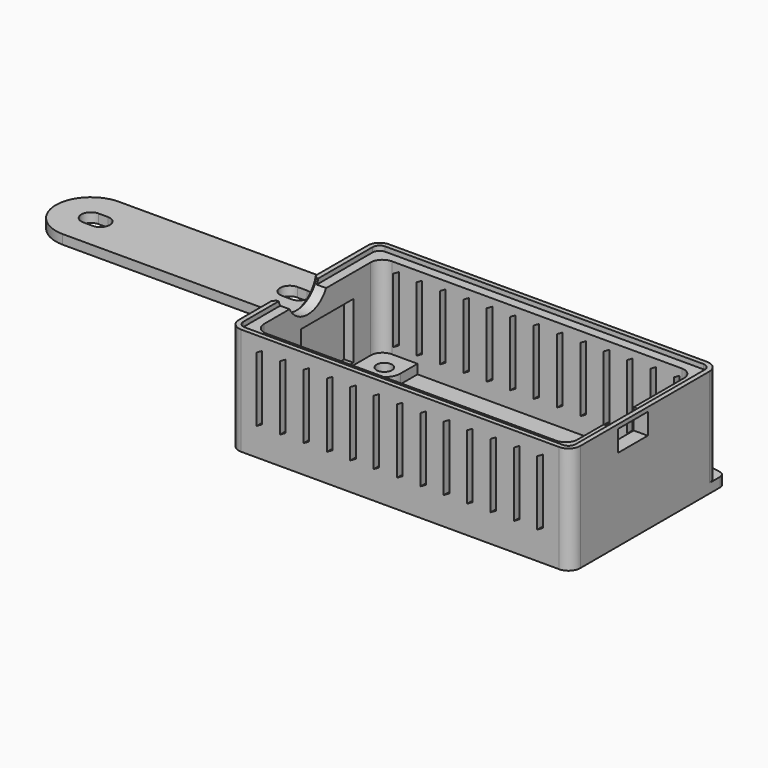
from build123d import *

# Parameters (mm, degrees)
PAD_DEPTH           = 4
PAD_DEPTH_BACK      = 15.5
SKETCH001_R         = 1.65
PAD001_DEPTH        = 2
PAD002_DEPTH        = 2.5
SKETCH003_R         = 2.55
POCKET_DEPTH        = 5
PAD004_DEPTH        = 1
SKETCH006_W         = 2.523834
SKETCH006_H         = 14
POCKET001_DEPTH     = 12
POCKET002_DEPTH     = 5
POCKET003_DEPTH     = 52
LINEARPATTERN_COUNT = 13
LINEARPATTERN_PITCH = 5
CHAMFER_SIZE        = 0.6
SKETCH010_W         = 8
SKETCH010_H         = 4.5
POCKET004_DEPTH     = 5
PAD005_DEPTH        = 2


with BuildPart() as part:
    # Sketch → Pad (new body, two sides)
    with BuildSketch(Plane.XY) as pad_sk:
        with BuildLine():
            ThreePointArc((-37.95, 36.15), (-39.717767, 35.417767), (-40.45, 33.65))
            Line((-40.45, -0.85), (-40.45, 33.65))
            ThreePointArc((-40.45, -0.85), (-39.717767, -2.617767), (-37.95, -3.35))
            Line((30.05, -3.35), (-37.95, -3.35))
            ThreePointArc((30.05, -3.35), (31.817767, -2.617767), (32.55, -0.85))
            Line((32.55, 33.65), (32.55, -0.85))
            ThreePointArc((32.55, 33.65), (31.817767, 35.417767), (30.05, 36.15))
            Line((-37.95, 36.15), (30.05, 36.15))
        make_face()
        with BuildLine():
            ThreePointArc((-34.95, 33.15), (-36.717767, 32.417767), (-37.45, 30.65))
            Line((-37.45, 2.15), (-37.45, 30.65))
            ThreePointArc((-37.45, 2.15), (-36.717767, 0.382233), (-34.95, -0.35))
            Line((27.05, -0.35), (-34.95, -0.35))
            ThreePointArc((27.05, -0.35), (28.817767, 0.382233), (29.55, 2.15))
            Line((29.55, 30.65), (29.55, 2.15))
            ThreePointArc((29.55, 30.65), (28.817767, 32.417767), (27.05, 33.15))
            Line((-34.95, 33.15), (27.05, 33.15))
        make_face(mode=Mode.SUBTRACT)
    extrude(amount=PAD_DEPTH)
    extrude(pad_sk.sketch, amount=-PAD_DEPTH_BACK)

    # Sketch001 → Pad001 (join)
    with BuildSketch(Plane(origin=(0, 0, -15.5), x_dir=(-1, 0, 0), z_dir=(0, 0, -1))):
        with BuildLine():
            ThreePointArc((32.95, 9.15), (30.475126, 8.124874), (29.45, 5.65))
            Line((29.45, 5.65), (29.45, -1.225866))
            Line((29.45, -1.225866), (39.187533, -1.225866))
            Line((39.187533, -1.225866), (40.181561, 0.643899))
            Line((40.181561, 0.643899), (40.181561, 9.15))
            Line((40.181561, 9.15), (32.95, 9.15))
        make_face()
        with Locations((32.95, 5.65)):
            Circle(SKETCH001_R, mode=Mode.SUBTRACT)
        with BuildLine():
            ThreePointArc((29.45, 28.65), (30.475126, 26.175126), (32.95, 25.15))
            Line((32.95, 25.15), (40.243741, 25.15))
            Line((40.243741, 25.15), (40.243741, 31.304911))
            Line((40.243741, 31.304911), (38.019788, 33.873424))
            Line((38.019788, 33.873424), (29.45, 33.873424))
            Line((29.45, 33.873424), (29.45, 28.65))
        make_face()
        with Locations((32.95, 28.65)):
            Circle(SKETCH001_R, mode=Mode.SUBTRACT)
        with BuildLine():
            ThreePointArc((-25.05, 25.15), (-22.575126, 26.175126), (-21.55, 28.65))
            Line((-21.55, 28.65), (-21.55, 33.652167))
            Line((-21.55, 33.652167), (-30.235516, 33.652167))
            Line((-30.235516, 33.652167), (-31.483717, 32.318474))
            Line((-31.483717, 32.318474), (-31.483717, 25.15))
            Line((-31.483717, 25.15), (-25.05, 25.15))
        make_face()
        with Locations((-25.05, 28.65)):
            Circle(SKETCH001_R, mode=Mode.SUBTRACT)
        with BuildLine():
            ThreePointArc((-21.55, 5.65), (-22.575126, 8.124874), (-25.05, 9.15))
            Line((-31.55538, 9.15), (-25.05, 9.15))
            Line((-31.55538, 0.848515), (-31.55538, 9.15))
            Line((-29.696674, -1.323495), (-31.55538, 0.848515))
            Line((-21.55, -1.323495), (-29.696674, -1.323495))
            Line((-21.55, 5.65), (-21.55, -1.323495))
        make_face()
        with Locations((-25.05, 5.65)):
            Circle(SKETCH001_R, mode=Mode.SUBTRACT)
    extrude(amount=-PAD001_DEPTH)

    # Sketch002 → Pad002 (join)
    with BuildSketch(Plane.XY.offset(-15.5)):
        with BuildLine():
            ThreePointArc((-37.95, 36.15), (-39.717767, 35.417767), (-40.45, 33.65))
            Line((-40.45, -0.85), (-40.45, 33.65))
            ThreePointArc((-40.45, -0.85), (-39.717767, -2.617767), (-37.95, -3.35))
            Line((30.05, -3.35), (-37.95, -3.35))
            ThreePointArc((30.05, -3.35), (31.817767, -2.617767), (32.55, -0.85))
            Line((32.55, 33.65), (32.55, -0.85))
            ThreePointArc((32.55, 33.65), (31.817767, 35.417767), (30.05, 36.15))
            Line((-37.95, 36.15), (30.05, 36.15))
        make_face()
    extrude(amount=-PAD002_DEPTH)

    # Sketch003 → Pocket (cut)
    with BuildSketch(Plane(origin=(0, 0, -15.5), x_dir=(-1, 0, 0), z_dir=(0, 0, -1))):
        with Locations((-25.05, 28.65)):
            Circle(SKETCH003_R)
        with Locations((-25.05, 5.65)):
            Circle(SKETCH003_R)
        with Locations((32.95, 28.65)):
            Circle(SKETCH003_R)
        with Locations((32.95, 5.65)):
            Circle(SKETCH003_R)
    extrude(amount=POCKET_DEPTH, mode=Mode.SUBTRACT)

    # Sketch005 → Pad004 (join)
    with BuildSketch(Plane.XY.offset(4)):
        with BuildLine():
            ThreePointArc((-37.95, 36.15), (-39.717767, 35.417767), (-40.45, 33.65))
            Line((-40.45, -0.85), (-40.45, 33.65))
            ThreePointArc((-40.45, -0.85), (-39.717767, -2.617767), (-37.95, -3.35))
            Line((30.05, -3.35), (-37.95, -3.35))
            ThreePointArc((30.05, -3.35), (31.817767, -2.617767), (32.55, -0.85))
            Line((32.55, 33.65), (32.55, -0.85))
            ThreePointArc((32.55, 33.65), (31.817767, 35.417767), (30.05, 36.15))
            Line((-37.95, 36.15), (30.05, 36.15))
        make_face()
        with BuildLine():
            ThreePointArc((-37.95, 35.15), (-39.01066, 34.71066), (-39.45, 33.65))
            Line((-39.45, -0.85), (-39.45, 33.65))
            ThreePointArc((-39.45, -0.85), (-39.01066, -1.91066), (-37.95, -2.35))
            Line((30.05, -2.35), (-37.95, -2.35))
            ThreePointArc((30.05, -2.35), (31.11066, -1.91066), (31.55, -0.85))
            Line((31.55, 33.65), (31.55, -0.85))
            ThreePointArc((31.55, 33.65), (31.11066, 34.71066), (30.05, 35.15))
            Line((-37.95, 35.15), (30.05, 35.15))
        make_face(mode=Mode.SUBTRACT)
    extrude(amount=PAD004_DEPTH)

    # Sketch006 → Pocket001 (cut)
    with BuildSketch(Plane.XY.offset(-13)):
        with Locations((-38.135521, 19.000789)):
            Rectangle(SKETCH006_W, SKETCH006_H)
    extrude(amount=POCKET001_DEPTH, mode=Mode.SUBTRACT)

    # Sketch007 → Pocket002 (cut)
    with BuildSketch(Plane(origin=(-41.45, 0, 0), x_dir=(0, -1, 0), z_dir=(-1, 0, 0))):
        with BuildLine():
            ThreePointArc((-18.1975, 9.870988), (-14.152954, 1.024743), (-9.127805, 9.353145))
            Line((-18.1975, 9.870988), (-9.127805, 9.353145))
        make_face()
    extrude(amount=-POCKET002_DEPTH, mode=Mode.SUBTRACT)

    # Sketch008 → Pocket003 (cut)
    with BuildSketch(Plane.XZ.offset(3.35)):
        Polygon((-34.649025, -12.071679), (-33.449025, -11.378859), (-33.449025, 2.455852), (-34.649025, 1.763032), align=None)
    pocket003 = extrude(amount=-POCKET003_DEPTH, mode=Mode.SUBTRACT)

    # LinearPattern: Pocket003 ×13
    with Locations(*[(i * LINEARPATTERN_PITCH, 0, 0) for i in range(1, LINEARPATTERN_COUNT)]):
        add(pocket003, mode=Mode.SUBTRACT)

    # Chamfer
    chamfer_edges = [part.edges().sort_by_distance(p)[0] for p in [
        (-40.45, 13.839437, 1.0158),
    ]]
    chamfer(chamfer_edges, length=CHAMFER_SIZE)

    # Sketch010 → Pocket004 (cut)
    with BuildSketch(Plane.YZ.offset(32.55)):
        with Locations((13.18814, 1.856331)):
            Rectangle(SKETCH010_W, SKETCH010_H)
    extrude(amount=-POCKET004_DEPTH, mode=Mode.SUBTRACT)

    # Sketch009 → Pad005 (new body)
    with BuildSketch(Plane.XY.offset(-18)):
        with BuildLine():
            Line((-40.45, 31.707518), (32.55, 31.707518))
            Line((32.55, 36.507114), (32.55, 31.707518))
            ThreePointArc((32.55, 36.507114), (32.209128, 37.436346), (31.34823, 37.924731))
            Line((-50.464409, 51.500242), (31.34823, 37.924731))
            Line((-107.949997, 51.500242), (-50.464409, 51.500242))
            ThreePointArc((-107.949997, 51.500242), (-115.450181, 44.030127), (-108.01025, 36.5))
            Line((-108.01025, 36.5), (-106.95, 36.5))
            Line((-45.242482, 36.5), (-106.95, 36.5))
            ThreePointArc((-40.45, 31.707518), (-41.853686, 35.096314), (-45.242482, 36.5))
        make_face()
        with BuildLine():
            ThreePointArc((-107.95, 46.05), (-110, 44), (-107.95, 41.95))
            Line((-107.95, 41.95), (-105.95, 41.95))
            ThreePointArc((-105.95, 41.95), (-103.9, 44), (-105.95, 46.05))
            Line((-105.95, 46.05), (-107.95, 46.05))
        make_face(mode=Mode.SUBTRACT)
        with BuildLine():
            ThreePointArc((-65.45, 46.05), (-67.5, 44), (-65.45, 41.95))
            Line((-65.45, 41.95), (-63.45, 41.95))
            ThreePointArc((-63.45, 41.95), (-61.4, 44), (-63.45, 46.05))
            Line((-63.45, 46.05), (-65.45, 46.05))
        make_face(mode=Mode.SUBTRACT)
    extrude(amount=PAD005_DEPTH)


solid = part.part
